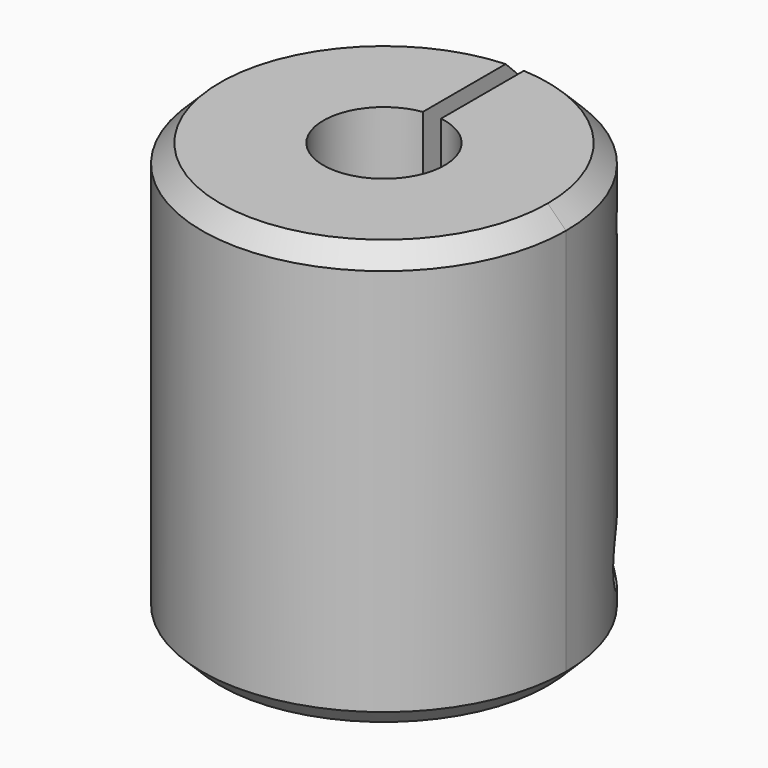
from build123d import *

# Parameters (mm, degrees)
F0_R      = 15
F1_DEPTH  = 35
F2_R      = 5
F3_DEPTH  = 35.001
F4_R      = 5.5
F5_DEPTH  = 12.5
F6_W      = 1.5
F6_H      = 20
F7_DEPTH  = 35.001
F8_R      = 1.45
F9_DEPTH  = 12.5
F11_R     = 2.9
F12_DEPTH = 10
F14_R     = 2.9
F15_DEPTH = 10
F16_SIZE  = 1.5


with BuildPart() as f1:
    # F0 (on Top) → F1 (new body)
    with BuildSketch(Plane.XY):
        Circle(F0_R)
    extrude(amount=F1_DEPTH)

    # F2 (on face) → F3 (cut, through all)
    with BuildSketch(Plane.XY.offset(35)):
        Circle(F2_R)
    extrude(amount=-F3_DEPTH, mode=Mode.SUBTRACT)

    # F4 (on face) → F5 (cut)
    with BuildSketch(Plane(origin=(0, 0, 0), x_dir=(1, 0, 0), z_dir=(0, 0, -1))):
        Circle(F4_R)
    extrude(amount=-F5_DEPTH, mode=Mode.SUBTRACT)

    # F6 (on face) → F7 (cut, through all)
    with BuildSketch(Plane(origin=(0, 0, 0), x_dir=(1, 0, 0), z_dir=(0, 0, -1))):
        with Locations((0, -10)):
            Rectangle(F6_W, F6_H)
    extrude(amount=-F7_DEPTH, mode=Mode.SUBTRACT)

    # F8 (on Right) → F9 (cut, symmetric)
    with BuildSketch(Plane.YZ):
        with Locations((10, 5.5)):
            Circle(F8_R)
        with Locations((10, 29.5)):
            Circle(F8_R)
    extrude(amount=F9_DEPTH, both=True, mode=Mode.SUBTRACT)

    # F11 (on offset) → F12 (cut)
    with BuildSketch(Plane.YZ.offset(15)):
        with Locations((10, 5.5)):
            Circle(F11_R)
    extrude(amount=-F12_DEPTH, mode=Mode.SUBTRACT)

    # F14 (on offset) → F15 (cut)
    with BuildSketch(Plane.YZ.offset(-15)):
        with Locations((10, 29.5)):
            Circle(F14_R)
    extrude(amount=F15_DEPTH, mode=Mode.SUBTRACT)

    # F16
    f16_edges = [f1.edges().sort_by_distance(p)[0] for p in [
        (-10.338037, -10.868533, 0),
        (-10.338037, -10.868533, 35),
    ]]
    chamfer(f16_edges, length=F16_SIZE)


solid = f1.part
